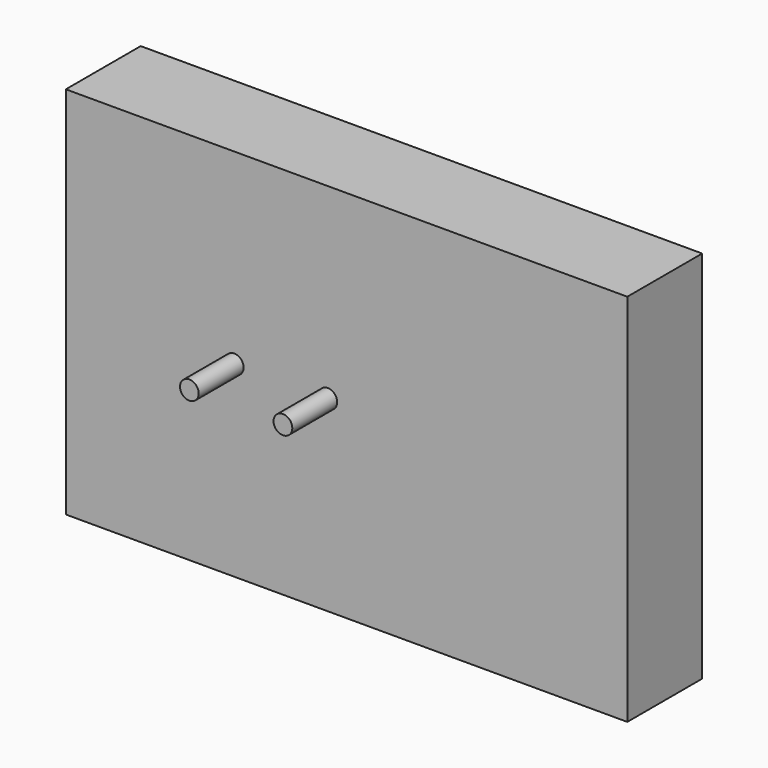
from build123d import *

# Parameters (mm, degrees)
F0_W     = 150
F0_H     = 100
F1_DEPTH = 25
F2_R     = 2.5
F3_DEPTH = 15
F4_R     = 2.5
F5_DEPTH = 15


with BuildPart() as f1:
    # F0 (on Front) → F1 (new body)
    with BuildSketch(Plane.XZ):
        Rectangle(F0_W, F0_H)
    extrude(amount=F1_DEPTH)

    # F2 (on face) → F3 (join)
    with BuildSketch(Plane.XZ.offset(25)):
        with Locations((-30, 0)):
            Circle(F2_R)
    extrude(amount=F3_DEPTH)

    # F4 (on face) → F5 (join)
    with BuildSketch(Plane.XZ.offset(25)):
        with Locations((-5, 0)):
            Circle(F4_R)
    extrude(amount=F5_DEPTH)


solid = f1.part
